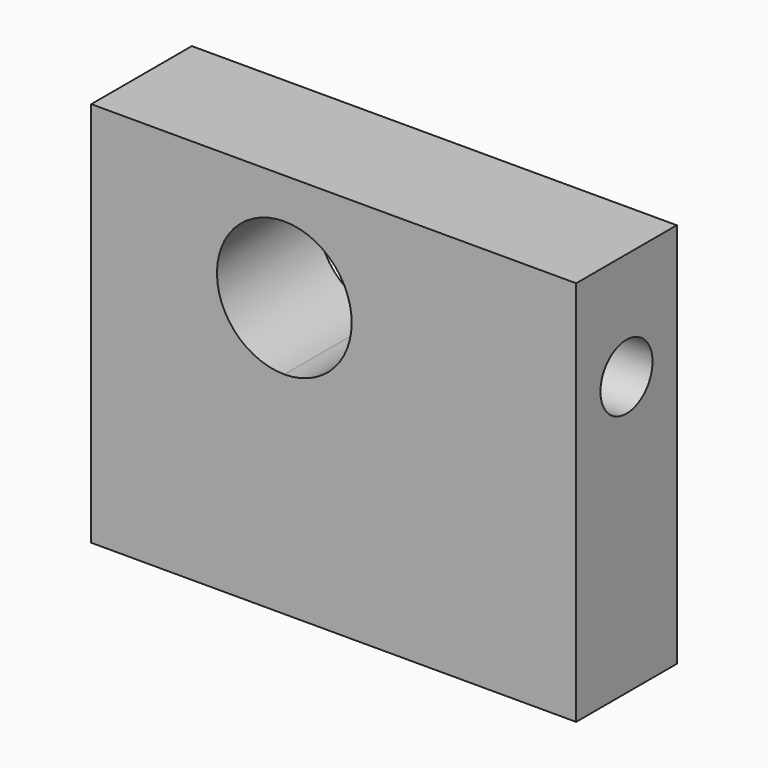
from build123d import *

# Parameters (mm, degrees)
SKETCH_W             = 108
SKETCH_H             = 28
PAD_DEPTH            = 86
POCKET001_DEPTH      = 14.001
POCKET001_DEPTH_BACK = 14.001
SKETCH003_R          = 3.4
HOLE_DEPTH           = 30
HOLE_TIPS_R          = 3.4
SKETCH001_R          = 7.25
HOLE001_DEPTH        = 35
HOLE001_TIPS_R       = 7.25


with BuildPart() as part:
    # Sketch → Pad (new body)
    with BuildSketch(Plane.XY):
        with Locations((-54, 0)):
            Rectangle(SKETCH_W, SKETCH_H)
    extrude(amount=PAD_DEPTH)

    # Sketch002 → Pocket001 (cut, two sides)
    with BuildSketch(Plane.XZ) as pocket001_sk:
        with BuildLine():
            ThreePointArc((-64.995977, 47), (-50, 62.002011), (-65, 77))
            ThreePointArc((-65, 77), (-80, 61.997989), (-64.995977, 47))
        make_face()
    extrude(amount=-POCKET001_DEPTH, mode=Mode.SUBTRACT)
    extrude(pocket001_sk.sketch, amount=POCKET001_DEPTH_BACK, mode=Mode.SUBTRACT)

    # Sketch003 → Hole (cut)
    with BuildSketch(Plane.XY):
        with Locations((-100, 7)):
            Circle(SKETCH003_R)
        with Locations((-100, -7)):
            Circle(SKETCH003_R)
        with Locations((-8, 7)):
            Circle(SKETCH003_R)
        with Locations((-8, -7)):
            Circle(SKETCH003_R)
    extrude(amount=HOLE_DEPTH, mode=Mode.SUBTRACT)

    # Hole tips → Hole tip 1 section 0
    with BuildSketch(Plane.XY.offset(30), mode=Mode.PRIVATE) as hole_tip_1_s0:
        with Locations((-100, 7)):
            Circle(HOLE_TIPS_R)
    loft([hole_tip_1_s0.sketch, Vertex(-100, 7, 32.042926)], mode=Mode.SUBTRACT)

    # Hole tips → Hole tip 2 section 0
    with BuildSketch(Plane.XY.offset(30), mode=Mode.PRIVATE) as hole_tip_2_s0:
        with Locations((-100, -7)):
            Circle(HOLE_TIPS_R)
    loft([hole_tip_2_s0.sketch, Vertex(-100, -7, 32.042926)], mode=Mode.SUBTRACT)

    # Hole tips → Hole tip 3 section 0
    with BuildSketch(Plane.XY.offset(30), mode=Mode.PRIVATE) as hole_tip_3_s0:
        with Locations((-8, 7)):
            Circle(HOLE_TIPS_R)
    loft([hole_tip_3_s0.sketch, Vertex(-8, 7, 32.042926)], mode=Mode.SUBTRACT)

    # Hole tips → Hole tip 4 section 0
    with BuildSketch(Plane.XY.offset(30), mode=Mode.PRIVATE) as hole_tip_4_s0:
        with Locations((-8, -7)):
            Circle(HOLE_TIPS_R)
    loft([hole_tip_4_s0.sketch, Vertex(-8, -7, 32.042926)], mode=Mode.SUBTRACT)

    # Sketch001 → Hole001 (cut)
    with BuildSketch(Plane.YZ):
        with Locations((0, 62)):
            Circle(SKETCH001_R)
    extrude(amount=-HOLE001_DEPTH, mode=Mode.SUBTRACT)

    # Hole001 tips → Hole001 tip 1 section 0
    with BuildSketch(Plane.YZ.offset(-35), mode=Mode.PRIVATE) as hole001_tip_1_s0:
        with Locations((0, 62)):
            Circle(HOLE001_TIPS_R)
    loft([hole001_tip_1_s0.sketch, Vertex(-39.356239, 0, 62)], mode=Mode.SUBTRACT)


solid = part.part
